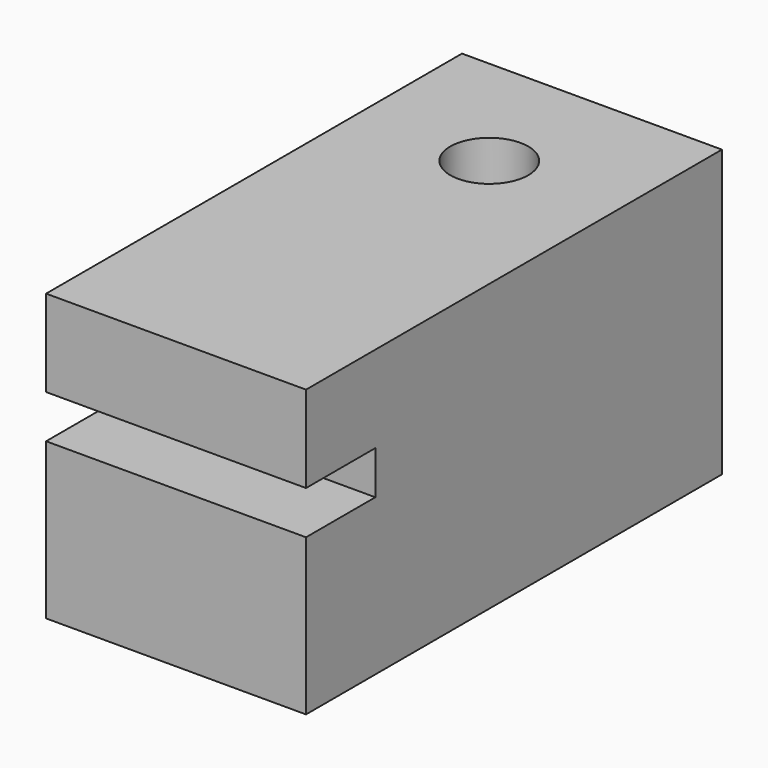
from build123d import *

# Parameters (mm, degrees)
F0_W     = 15
F0_H     = 25
F0_R     = 2.25
F1_DEPTH = 2.5
F2_W     = 15
F2_H     = 30
F2_R     = 2.25
F3_DEPTH = 5
F4_W     = 15
F4_H     = 30
F4_R     = 2.5
F5_DEPTH = 9


with BuildPart() as f1:
    # F0 (on Top) → F1 (new body)
    with BuildSketch(Plane.XY):
        with Locations((7.5, -12.5)):
            Rectangle(F0_W, F0_H)
        with Locations((7.5, -7.405)):
            Circle(F0_R, mode=Mode.SUBTRACT)
    extrude(amount=F1_DEPTH)

    # F2 (on face) → F3 (join)
    with BuildSketch(Plane.XY.offset(2.5)):
        with Locations((7.5, -15)):
            Rectangle(F2_W, F2_H)
        with Locations((7.5, -7.405)):
            Circle(F2_R, mode=Mode.SUBTRACT)
    extrude(amount=F3_DEPTH)

    # F4 (on face) → F5 (join)
    with BuildSketch(Plane(origin=(0, 0, 0), x_dir=(1, 0, 0), z_dir=(0, 0, -1))):
        with Locations((7.5, 15)):
            Rectangle(F4_W, F4_H)
        with Locations((7.5, 7.405)):
            Circle(F4_R, mode=Mode.SUBTRACT)
    extrude(amount=F5_DEPTH)


solid = f1.part
